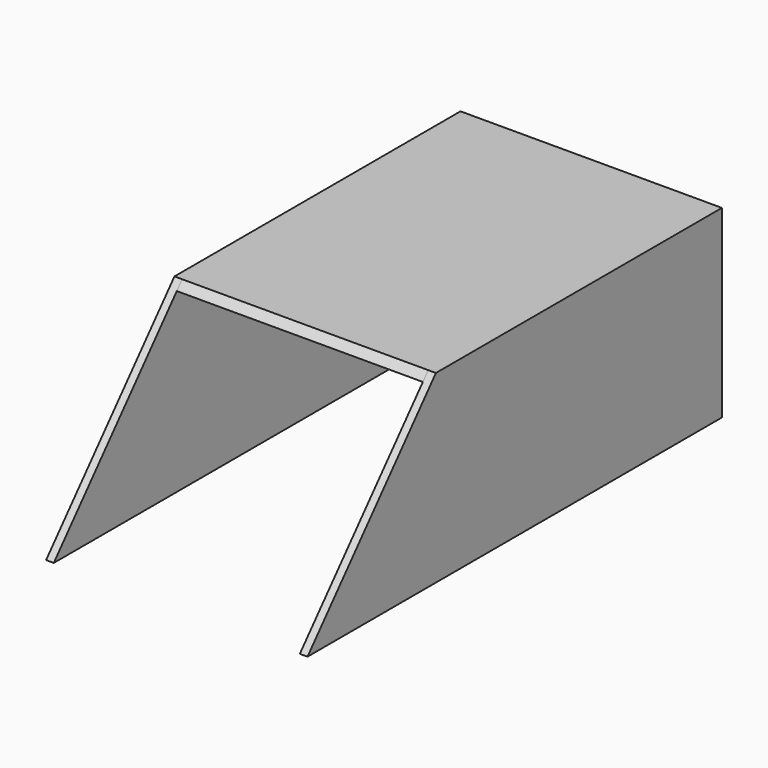
from build123d import *

# Parameters (mm, degrees)
F2_DEPTH = 3.175
F5_DEPTH = 101.6


with BuildPart() as f2:
    # F1 (on offset) → F2 (new body)
    with BuildSketch(Plane.YZ.offset(50.8)):
        Polygon((-68.286333, 76.2), (-134.548811, 0), (79.343306, 0), (79.343306, 76.2), align=None)
    extrude(amount=F2_DEPTH)



with BuildPart() as f3_1:
    # F3: instance of F2
    add(f2.part.mirror(Plane.YZ))


with BuildPart() as f2_1:
    add(f2.part)

    add(f3_1.part)  # F5 merges F3_1
    # F4 (on face) → F5 (join, through all)
    with BuildSketch(Plane(origin=(50.8, 0, 0), x_dir=(0, -1, 0), z_dir=(-1, 0, 0))):
        Polygon((68.286333, 76.2), (-79.343306, 76.2), (-79.343306, 73.025), (71.047269, 73.025), align=None)
    extrude(amount=F5_DEPTH)


solid = f2_1.part
